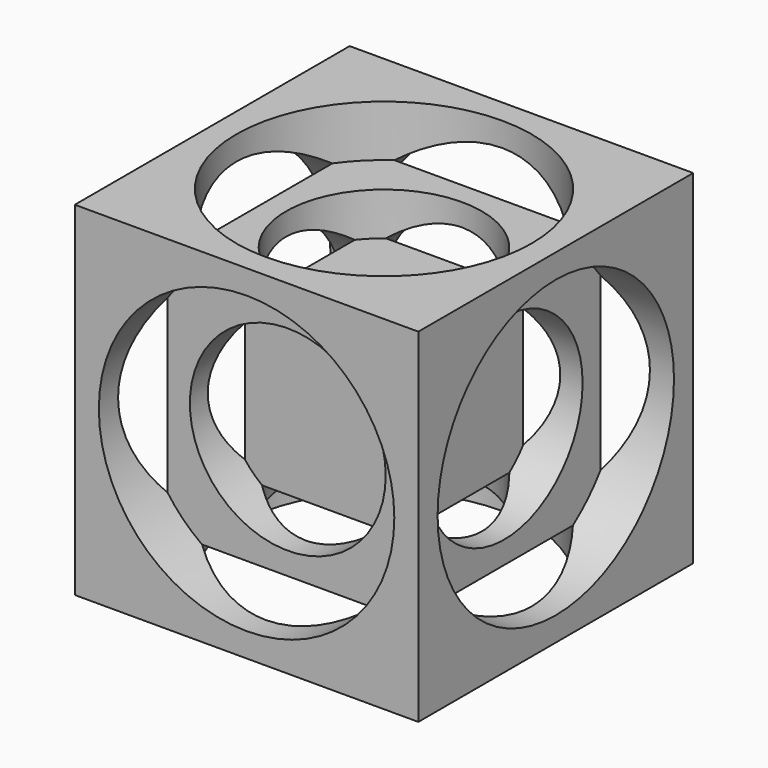
from build123d import *

# Parameters (mm, degrees)
F15_W     = 127
F15_H     = 127
F16_DEPTH = 127
F0_R      = 54.61
F17_DEPTH = 19.05
F18_R     = 54.61
F1_DEPTH  = 19.05
F19_R     = 54.61
F2_DEPTH  = 19.05
F3_R      = 54.61
F4_DEPTH  = 19.05
F20_R     = 54.61
F5_DEPTH  = 19.05
F6_R      = 54.61
F21_DEPTH = 19.05
F22_R     = 36.195
F7_DEPTH  = 15.875
F8_R      = 36.195
F9_DEPTH  = 15.875
F23_R     = 36.195
F10_DEPTH = 15.875
F11_R     = 36.195
F24_DEPTH = 15.875
F25_R     = 36.195
F12_DEPTH = 15.875
F13_R     = 36.195
F14_DEPTH = 15.875


with BuildPart() as f16:
    # F15 (on Top) → F16 (new body)
    with BuildSketch(Plane.XY):
        Rectangle(F15_W, F15_H)
    extrude(amount=F16_DEPTH)

    # F0 (on face) → F17 (cut)
    with BuildSketch(Plane.XY.offset(127)):
        Circle(F0_R)
    extrude(amount=-F17_DEPTH, mode=Mode.SUBTRACT)

    # F18 (on face) → F1 (cut)
    with BuildSketch(Plane.XZ.offset(63.5)):
        with Locations((0, 63.5)):
            Circle(F18_R)
    extrude(amount=-F1_DEPTH, mode=Mode.SUBTRACT)

    # F19 (on face) → F2 (cut)
    with BuildSketch(Plane(origin=(0, 63.5, 0), x_dir=(-1, 0, 0), z_dir=(0, 1, 0))):
        with Locations((0, 63.5)):
            Circle(F19_R)
        with Locations((0, 63.5)):
            Circle(F19_R)
    extrude(amount=-F2_DEPTH, mode=Mode.SUBTRACT)

    # F3 (on face) → F4 (cut)
    with BuildSketch(Plane.YZ.offset(63.5)):
        with Locations((0, 63.5)):
            Circle(F3_R)
        with Locations((0, 63.5)):
            Circle(F3_R)
    extrude(amount=-F4_DEPTH, mode=Mode.SUBTRACT)

    # F20 (on face) → F5 (cut)
    with BuildSketch(Plane(origin=(-63.5, 0, 0), x_dir=(0, -1, 0), z_dir=(-1, 0, 0))):
        with Locations((0, 63.5)):
            Circle(F20_R)
        with Locations((0, 63.5)):
            Circle(F20_R)
    extrude(amount=-F5_DEPTH, mode=Mode.SUBTRACT)

    # F6 (on face) → F21 (cut)
    with BuildSketch(Plane(origin=(0, 0, 0), x_dir=(1, 0, 0), z_dir=(0, 0, -1))):
        Circle(F6_R)
    extrude(amount=-F21_DEPTH, mode=Mode.SUBTRACT)

    # F22 (on face) → F7 (cut)
    with BuildSketch(Plane(origin=(0, 0, 19.05), x_dir=(1, 0, 0), z_dir=(0, 0, -1))):
        Circle(F22_R)
        Circle(F22_R)
    extrude(amount=-F7_DEPTH, mode=Mode.SUBTRACT)

    # F8 (on face) → F9 (cut)
    with BuildSketch(Plane.XZ.offset(44.45)):
        with Locations((0, 63.5)):
            Circle(F8_R)
    extrude(amount=-F9_DEPTH, mode=Mode.SUBTRACT)

    # F23 (on face) → F10 (cut)
    with BuildSketch(Plane.YZ.offset(44.45)):
        with Locations((0, 63.5)):
            Circle(F23_R)
    extrude(amount=-F10_DEPTH, mode=Mode.SUBTRACT)

    # F11 (on face) → F24 (cut)
    with BuildSketch(Plane(origin=(-44.45, 0, 0), x_dir=(0, -1, 0), z_dir=(-1, 0, 0))):
        with Locations((0, 63.5)):
            Circle(F11_R)
    extrude(amount=-F24_DEPTH, mode=Mode.SUBTRACT)

    # F25 (on face) → F12 (cut)
    with BuildSketch(Plane(origin=(0, 44.45, 0), x_dir=(-1, 0, 0), z_dir=(0, 1, 0))):
        with Locations((0, 63.5)):
            Circle(F25_R)
    extrude(amount=-F12_DEPTH, mode=Mode.SUBTRACT)

    # F13 (on face) → F14 (cut)
    with BuildSketch(Plane.XY.offset(107.95)):
        Circle(F13_R)
    extrude(amount=-F14_DEPTH, mode=Mode.SUBTRACT)


solid = f16.part
